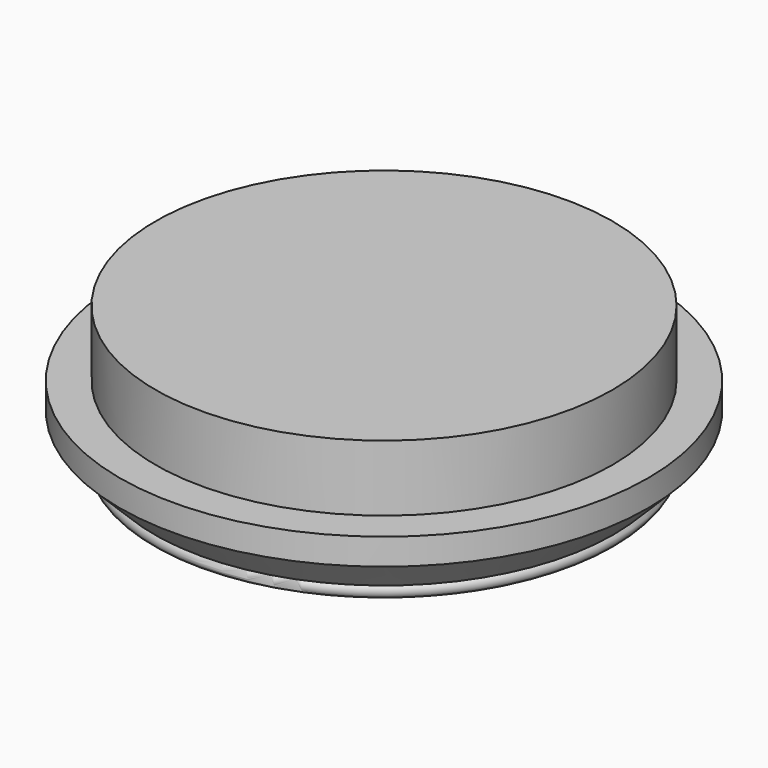
from build123d import *

# Parameters (mm, degrees)
F0_R      = 20
F1_DEPTH  = 5
F2_R      = 16.6
F3_DEPTH  = 5
F4_W      = 6
F4_H      = 11
F5_DEPTH  = 2.5
F6_R      = 2
F7_SIZE   = 3
F8_W      = 2.95381
F8_H      = 3.5
F9_DEPTH  = 2.5
F10_R     = 1.25
F12_DEPTH = 0.75
F13_R     = 0.545211
F15_R     = 17.3
F15_R_2   = 16.6
F16_DEPTH = 5


with BuildPart() as f1:
    # F0 (on Top) → F1 (new body)
    with BuildSketch(Plane.XY):
        Circle(F0_R)
    extrude(amount=F1_DEPTH)

    # F2 (on face) → F3 (join)
    with BuildSketch(Plane.XY.offset(5)):
        Circle(F2_R)
    extrude(amount=F3_DEPTH)

    # F4 (on face) → F5 (join)
    with BuildSketch(Plane(origin=(0, 0, 0), x_dir=(1, 0, 0), z_dir=(0, 0, -1))):
        with Locations((0, -7.136372)):
            Rectangle(F4_W, F4_H)
    extrude(amount=F5_DEPTH)

    # F6
    f6_edges = [f1.edges().sort_by_distance(p)[0] for p in [
        (-3, 12.636372, -1.25),
        (3, 12.636372, -1.25),
        (3, 1.636372, -1.25),
        (-3, 1.636372, -1.25),
    ]]
    fillet(f6_edges, radius=F6_R)

    # F7
    f7_edges = [f1.edges().sort_by_distance(p)[0] for p in [
        (-20, 0, 0),
    ]]
    chamfer(f7_edges, length=F7_SIZE)

    # F8 (on face) → F9 (cut)
    with BuildSketch(Plane(origin=(0, 0, -2.5), x_dir=(1, 0, 0), z_dir=(0, 0, -1))):
        with Locations((0, -4.806658)):
            Rectangle(F8_W, F8_H)
        with Locations((0, -9.536388)):
            Rectangle(F8_W, F8_H)
    extrude(amount=-F9_DEPTH, mode=Mode.SUBTRACT)

    # F10
    f10_edges = [f1.edges().sort_by_distance(p)[0] for p in [
        (1.476905, 3.056658, -1.25),
        (-1.476905, 3.056658, -1.25),
        (1.476905, 6.556658, -1.25),
        (-1.476905, 6.556658, -1.25),
        (1.476905, 7.786388, -1.25),
        (-1.476905, 7.786388, -1.25),
        (-1.476905, 11.286388, -1.25),
        (1.476905, 11.286388, -1.25),
    ]]
    fillet(f10_edges, radius=F10_R)

    # F11 (on face) → F12 (cut)
    with BuildSketch(Plane(origin=(0, 0, 0), x_dir=(1, 0, 0), z_dir=(0, 0, -1))):
        with BuildLine():
            Line((5.592829, -4.637425), (6.928778, -4.637425))
            ThreePointArc((6.928778, -4.637425), (0.168305, 9.952743), (-6.79139, -4.543452))
            Line((-6.79139, -4.543452), (-5.167165, -4.543452))
            ThreePointArc((-5.167165, -4.543452), (0.331289, 8.972893), (5.592829, -4.637425))
        make_face()
    extrude(amount=-F12_DEPTH, mode=Mode.SUBTRACT)

    # F13 (on Right) → F14 (revolve)
    with BuildSketch(Plane.YZ):
        with Locations((-16.998546, 0)):
            Circle(F13_R)
    revolve(axis=Axis((0, 0, -2.59406), (0, 0, -1)))

    # F15 (on face) → F16 (join)
    with BuildSketch(Plane.XY.offset(10)):
        Circle(F15_R)
        Circle(F15_R_2, mode=Mode.SUBTRACT)
    extrude(amount=-F16_DEPTH)


solid = f1.part
